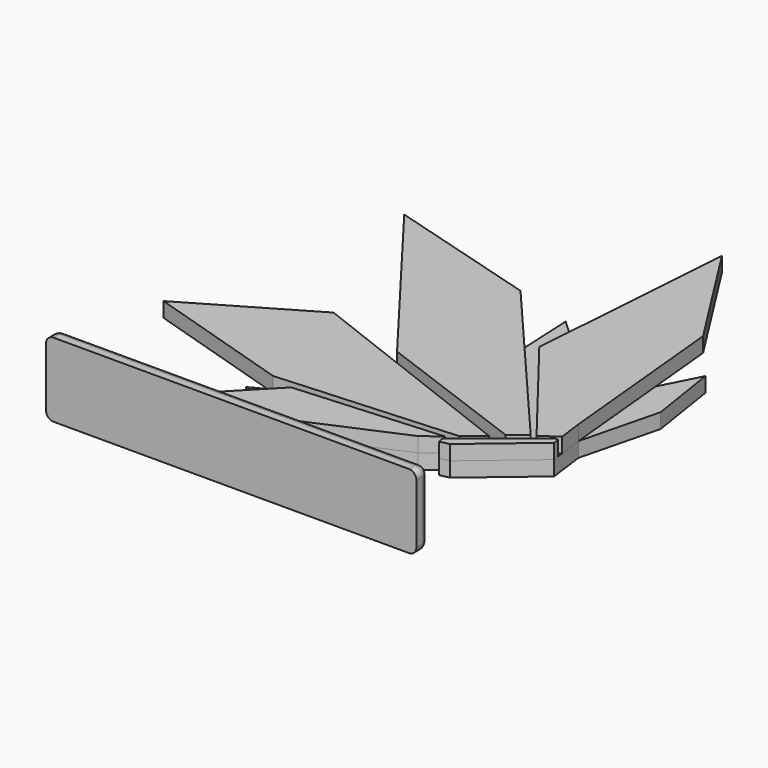
from build123d import *

# Parameters (mm, degrees)
PAD_DEPTH       = 10
SKETCH001_W     = 10
SKETCH001_H     = 10
PAD001_DEPTH    = 4
SKETCH004_W     = 5
SKETCH004_H     = 5
POCKET001_DEPTH = 5
SKETCH002_W     = 250
SKETCH002_H     = 50
PAD002_DEPTH    = 10
SKETCH003_W     = 11
SKETCH003_H     = 11
POCKET_DEPTH    = 5
FILLET_R        = 5
PAD003_DEPTH    = 10
SKETCH006_W     = 4
SKETCH006_H     = 4
PAD004_DEPTH    = 4
PAD005_DEPTH    = 10
SKETCH008_W     = 4
SKETCH008_H     = 4
PAD006_DEPTH    = 4
PAD007_DEPTH    = 10
SKETCH011_W     = 4
SKETCH011_H     = 4
PAD008_DEPTH    = 4
PAD009_DEPTH    = 10
SKETCH013_W     = 4
SKETCH013_H     = 4
PAD010_DEPTH    = 4
PAD011_DEPTH    = 10
PAD012_DEPTH    = 4


with BuildPart() as back:
    # Sketch → Pad (new body)
    with BuildSketch(Plane.XY):
        Polygon((0, 0), (80.25, 0), (97.317845, 23.840114), (128.450433, 37.305937), (139.748692, 45.841448), (140.949624, 39.361798), (147.273744, 40.727966), (189.210872, 76.142501), (186.020187, 100.67589), (199.257871, 153.53347), (191.912222, 200.441805), (178.850915, 174.807547), (115.155403, 184.770609), (95.451347, 203.112817), (97.295665, 165.117552), (71.344506, 101.367209), (89.555289, 81.824864), (10.517598, 39.303034), (32.52839, 32.426359), align=None)
    extrude(amount=PAD_DEPTH)

    # Sketch001 (on Face12 of Pad) → Pad001 (join)
    with BuildSketch(Plane.XZ):
        with Locations((5, 5)):
            Rectangle(SKETCH001_W, SKETCH001_H)
        with Locations((75.25, 5)):
            Rectangle(SKETCH001_W, SKETCH001_H)
    extrude(amount=PAD001_DEPTH)

    # Sketch004 (on Face5 of Pad001) → Pocket001 (cut)
    with BuildSketch(Plane.XY.offset(10)):
        with Locations((42.5, 22.5)):
            Rectangle(SKETCH004_W, SKETCH004_H)
        with Locations((72.5, 27.5)):
            Rectangle(SKETCH004_W, SKETCH004_H)
        with Locations((72.5, 57.5)):
            Rectangle(SKETCH004_W, SKETCH004_H)
        with Locations((102.5, 57.5)):
            Rectangle(SKETCH004_W, SKETCH004_H)
        with Locations((102.5, 122.5)):
            Rectangle(SKETCH004_W, SKETCH004_H)
        with Locations((132.5, 92.5)):
            Rectangle(SKETCH004_W, SKETCH004_H)
        with Locations((160.784271, 155.784271)):
            Rectangle(SKETCH004_W, SKETCH004_H)
        with Locations((165.784271, 125.784271)):
            Rectangle(SKETCH004_W, SKETCH004_H)
        Polygon((157.585786, 55), (159, 56.414214), (160.414214, 55), (159, 53.585786), align=None)
    extrude(amount=-POCKET001_DEPTH, mode=Mode.SUBTRACT)


with BuildPart() as foot:
    # Sketch002 (on Face1 of ShapeBinder) → Pad002 (new body)
    with BuildSketch(Plane.XZ):
        with Locations((40.125, 5)):
            Rectangle(SKETCH002_W, SKETCH002_H)
    extrude(amount=PAD002_DEPTH)

    # Sketch003 (on Face5 of Pad002) → Pocket (cut)
    with BuildSketch(Plane(origin=(0, 0, 0), x_dir=(-1, 0, 0), z_dir=(0, 1, 0))):
        with Locations((-75.25, 5)):
            Rectangle(SKETCH003_W, SKETCH003_H)
        with Locations((-5, 5)):
            Rectangle(SKETCH003_W, SKETCH003_H)
    extrude(amount=-POCKET_DEPTH, mode=Mode.SUBTRACT)

    # Fillet
    fillet_edges = [foot.edges().sort_by_distance(p)[0] for p in [
        (-84.875, -5, 30),
        (40.125, 0, 30),
        (-84.875, 0, 5),
        (40.125, 0, -20),
        (165.125, 0, 5),
        (165.125, -5, 30),
        (165.125, -5, -20),
        (-84.875, -5, -20),
    ]]
    fillet(fillet_edges, radius=FILLET_R)


with BuildPart() as wingone:
    # Sketch005 (on Face1 of ShapeBinder001) → Pad003 (new body)
    with BuildSketch(Plane.XY.offset(10)):
        Polygon((49.38908, 3.109416), (128.450433, 37.305937), (139.748692, 45.841448), (41.509785, 38.954684), (6.75908, 3.109416), align=None)
    extrude(amount=PAD003_DEPTH)

    # Sketch006 (on Face6 of Pad003) → Pad004 (join)
    with BuildSketch(Plane(origin=(0, 0, 10), x_dir=(1, 0, 0), z_dir=(0, 0, -1))):
        with Locations((72.5, -27.5)):
            Rectangle(SKETCH006_W, SKETCH006_H)
        with Locations((42.5, -22.5)):
            Rectangle(SKETCH006_W, SKETCH006_H)
    extrude(amount=PAD004_DEPTH)


with BuildPart() as wingtwo:
    # Sketch007 (on Face1 of ShapeBinder002) → Pad005 (new body)
    with BuildSketch(Plane.XY.offset(10)):
        Polygon((157.384975, 60.862882), (145.555374, 50.816444), (25.86, 43.16), (-72.65641, 73.863308), (5.522071, 119.583739), align=None)
    extrude(amount=PAD005_DEPTH)

    # Sketch008 (on Face6 of Pad005) → Pad006 (join)
    with BuildSketch(Plane(origin=(0, 0, 10), x_dir=(1, 0, 0), z_dir=(0, 0, -1))):
        with Locations((72.5, -57.5)):
            Rectangle(SKETCH008_W, SKETCH008_H)
        with Locations((102.5, -57.5)):
            Rectangle(SKETCH008_W, SKETCH008_H)
    extrude(amount=PAD006_DEPTH)


with BuildPart() as wingthree:
    # Sketch010 (on Face1 of ShapeBinder003) → Pad007 (new body)
    with BuildSketch(Plane.XY.offset(10)):
        Polygon((174.228876, 75.147229), (163.626423, 67.182746), (59.472865, 105.764882), (-35.315048, 230.310807), (66.970392, 200.581751), align=None)
    extrude(amount=PAD007_DEPTH)

    # Sketch011 (on Face6 of Pad007) → Pad008 (join)
    with BuildSketch(Plane(origin=(0, 0, 10), x_dir=(1, 0, 0), z_dir=(0, 0, -1))):
        with Locations((132.5, -92.5)):
            Rectangle(SKETCH011_W, SKETCH011_H)
        with Locations((102.5, -122.5)):
            Rectangle(SKETCH011_W, SKETCH011_H)
    extrude(amount=PAD008_DEPTH)


with BuildPart() as wingfour:
    # Sketch012 (on Face1 of ShapeBinder004) → Pad009 (new body)
    with BuildSketch(Plane.XY.offset(10)):
        Polygon((186.020187, 100.67589), (188.163647, 84.194689), (177.00173, 76.5834), (114.750674, 156.735711), (124.949132, 298.108336), (174.444816, 220.367465), align=None)
    extrude(amount=PAD009_DEPTH)

    # Sketch013 (on Face7 of Pad009) → Pad010 (join)
    with BuildSketch(Plane(origin=(0, 0, 10), x_dir=(1, 0, 0), z_dir=(0, 0, -1))):
        with Locations((165.784271, -125.784271)):
            Rectangle(SKETCH013_W, SKETCH013_H)
        with Locations((160.784271, -155.784271)):
            Rectangle(SKETCH013_W, SKETCH013_H)
    extrude(amount=PAD010_DEPTH)


with BuildPart() as body:
    # Sketch014 (on Face1 of ShapeBinder005) → Pad011 (new body)
    with BuildSketch(Plane.XY.offset(10)):
        Polygon((189.210872, 76.142501), (188.698867, 80.079347), (186.741127, 80.390123), (140.278998, 42.980176), (140.949624, 39.361798), (147.273744, 40.727966), align=None)
    extrude(amount=PAD011_DEPTH)

    # Sketch015 (on Face7 of Pad011) → Pad012 (join)
    with BuildSketch(Plane(origin=(0, 0, 10), x_dir=(1, 0, 0), z_dir=(0, 0, -1))):
        Polygon((159, -54.292893), (159.707107, -55), (159, -55.707107), (158.292893, -55), align=None)
    extrude(amount=PAD012_DEPTH)


solid = Compound([back.part, foot.part, wingone.part, wingtwo.part, wingthree.part, wingfour.part, body.part])
